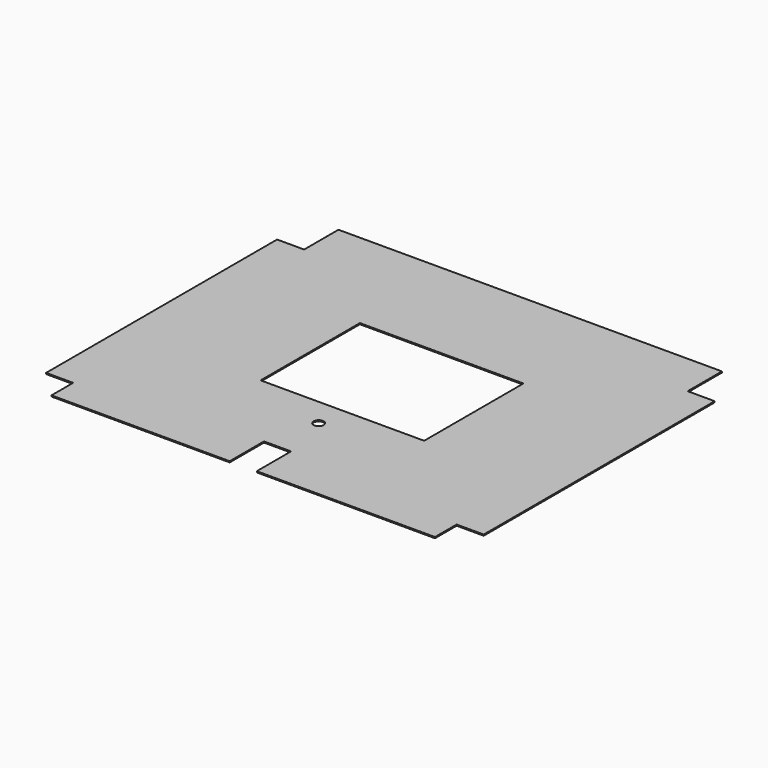
from build123d import *

# Parameters (mm, degrees)
BOX032_W               = 145
BOX032_H               = 110
BOX032_DEPTH           = 1
BOX033_W               = 24
BOX033_H               = 38
BOX033_DEPTH           = 1
CYLINDER014_R          = 4.5
CYLINDER014_DEPTH      = 1
BOX029_W               = 24
BOX029_H               = 38
BOX029_DEPTH           = 1
BOX030_W               = 24
BOX030_H               = 24
BOX030_DEPTH           = 1
BOX031_W               = 24
BOX031_H               = 24
BOX031_DEPTH           = 1
BOX028_W               = 24
BOX028_H               = 38
BOX028_DEPTH           = 1
BOX027_W               = 388
BOX027_H               = 318
BOX027_DEPTH           = 1
CUT015_PLACEMENT_ANGLE = 180


with BuildPart() as hueco_central001:
    # Box032 → Box032 (new body)
    with BuildSketch(Plane(origin=(120, 100, 0), x_dir=(1, 0, 0), z_dir=(0, 0, 1))):
        with Locations((72.5, 55)):
            Rectangle(BOX032_W, BOX032_H)
    extrude(amount=BOX032_DEPTH)


with BuildPart() as cubo027:
    # Box033 → Box033 (new body)
    with BuildSketch(Plane(origin=(182, 280, 0), x_dir=(1, 0, 0), z_dir=(0, 0, 1))):
        with Locations((12, 19)):
            Rectangle(BOX033_W, BOX033_H)
    extrude(amount=BOX033_DEPTH)


with BuildPart() as cilindro014:
    # Cylinder014 → Cylinder014 (new body)
    with BuildSketch(Plane(origin=(193.5, 235, 0), x_dir=(1, 0, 0), z_dir=(0, 0, 1))):
        Circle(CYLINDER014_R)
    extrude(amount=CYLINDER014_DEPTH)


with BuildPart() as cubo024:
    # Box029 → Box029 (new body)
    with BuildSketch(Plane(origin=(364, 0, 0), x_dir=(1, 0, 0), z_dir=(0, 0, 1))):
        with Locations((12, 19)):
            Rectangle(BOX029_W, BOX029_H)
    extrude(amount=BOX029_DEPTH)


with BuildPart() as cubo025:
    # Box030 → Box030 (new body)
    with BuildSketch(Plane(origin=(0, 294, 0), x_dir=(1, 0, 0), z_dir=(0, 0, 1))):
        with Locations((12, 12)):
            Rectangle(BOX030_W, BOX030_H)
    extrude(amount=BOX030_DEPTH)


with BuildPart() as cubo026:
    # Box031 → Box031 (new body)
    with BuildSketch(Plane(origin=(364, 294, 0), x_dir=(1, 0, 0), z_dir=(0, 0, 1))):
        with Locations((12, 12)):
            Rectangle(BOX031_W, BOX031_H)
    extrude(amount=BOX031_DEPTH)


with BuildPart() as obj1:
    # Box028 → Box028 (new body)
    with BuildSketch(Plane.XY):
        with Locations((12, 19)):
            Rectangle(BOX028_W, BOX028_H)
    extrude(amount=BOX028_DEPTH)

    # Fusion016: union Cubo024, Cubo025, Cubo026
    add(cubo024.part)
    add(cubo025.part)
    add(cubo026.part)

    # Fusion017: union hueco central001, Cubo027, Cilindro014
    add(hueco_central001.part)
    add(cubo027.part)
    add(cilindro014.part)


with BuildPart() as obj2:
    # Box027 → Box027 (new body)
    with BuildSketch(Plane.XY):
        with Locations((194, 159)):
            Rectangle(BOX027_W, BOX027_H)
    extrude(amount=BOX027_DEPTH)

    # Cut015: cut obj1
    add(obj1.part, mode=Mode.SUBTRACT)


with BuildPart() as obj2_1:
    # Cut015 placement: moved
    add(obj2.part.moved(Location((216, 144, -75))).rotate(Axis((216, 144, -75), (0, 0, 1)), CUT015_PLACEMENT_ANGLE))


solid = obj2_1.part
